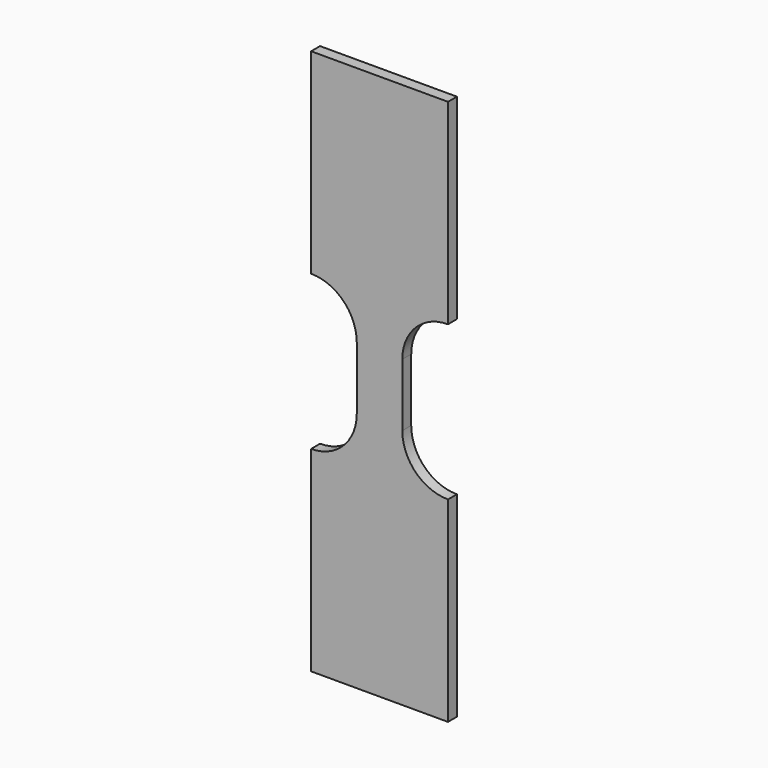
from build123d import *

# Parameters (mm, degrees)
F1_DEPTH = 1.56


with BuildPart() as f1:
    # F0 (on Front) → F1 (new body)
    with BuildSketch(Plane.XZ):
        with BuildLine():
            Line((3.18, -4.39), (3.18, 0))
            Line((3.18, 0), (3.18, 4.39))
            ThreePointArc((3.18, 4.39), (5.048659, 8.901341), (9.56, 10.77))
            Line((9.56, 10.77), (9.56, 38.13))
            Line((9.56, 38.13), (-9.56, 38.13))
            Line((-9.56, 38.13), (-9.56, 10.77))
            ThreePointArc((-9.56, 10.77), (-5.048659, 8.901341), (-3.18, 4.39))
            Line((-3.18, 4.39), (-3.18, 0))
            Line((-3.18, 0), (-3.18, -4.39))
            ThreePointArc((-3.18, -4.39), (-5.048659, -8.901341), (-9.56, -10.77))
            Line((-9.56, -10.77), (-9.56, -38.13))
            Line((-9.56, -38.13), (9.56, -38.13))
            Line((9.56, -38.13), (9.56, -10.77))
            ThreePointArc((9.56, -10.77), (5.048659, -8.901341), (3.18, -4.39))
        make_face()
    extrude(amount=F1_DEPTH)


solid = f1.part
